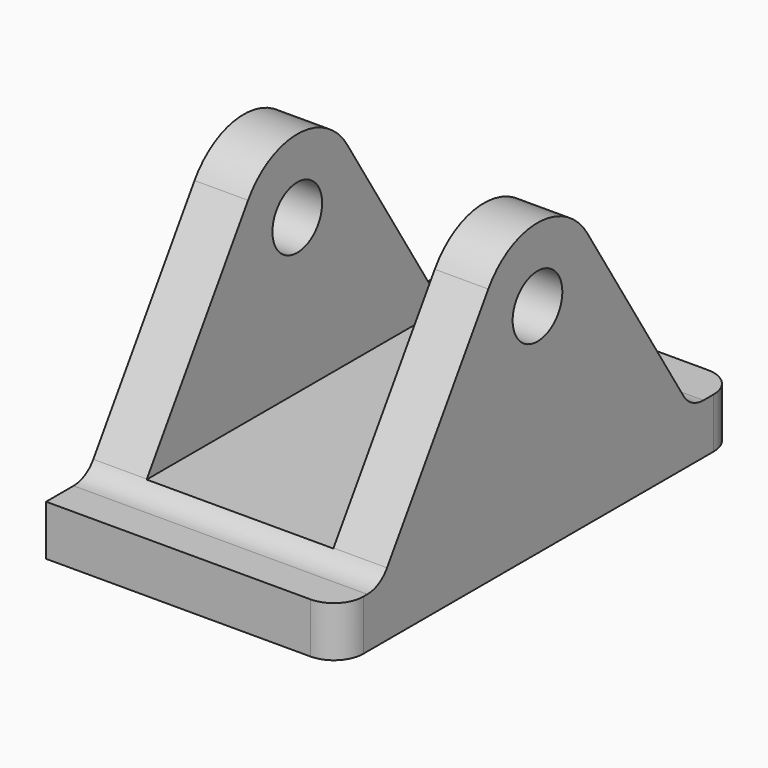
from build123d import *

# Parameters (mm, degrees)
F0_R          = 5.370035
F1_DEPTH      = 25.4
F2_R          = 5.08
F3_W          = 32.284736
F3_H          = 39.864631
F4_DEPTH      = 40.848212
F4_DEPTH_BACK = 50.8
F5_R          = 2.592442
F6_DEPTH      = 27.65358


with BuildPart() as f1:
    # F0 (on Right) → F1 (new body, symmetric)
    with BuildSketch(Plane.YZ):
        with BuildLine():
            Line((-8.754894, 16.901342), (-32.144371, -18.949738))
            Line((-32.144371, -18.949738), (34.951739, -18.949738))
            Line((34.951739, -18.949738), (12.647971, 16.698166))
            ThreePointArc((12.647971, 16.698166), (2.002183, 22.661433), (-8.754894, 16.901342))
        make_face()
        with Locations((1.881628, 9.962005)):
            Circle(F0_R, mode=Mode.SUBTRACT)
        Polygon((-32.144371, -18.949738), (-40.847212, -18.949738), (-40.847212, -27.65258), (45.05827, -27.65258), (45.05827, -18.949738), (34.951739, -18.949738), align=None)
    extrude(amount=F1_DEPTH, both=True)

    # F2
    f2_edges = [f1.edges().sort_by_distance(p)[0] for p in [
        (25.4, -40.847212, -23.301159),
        (25.4, 45.05827, -23.301159),
        (0, -32.144371, -18.949738),
        (0, 34.951739, -18.949738),
    ]]
    fillet(f2_edges, radius=F2_R)

    # F3 (on Front) → F4 (cut, two sides)
    with BuildSketch(Plane.XZ) as f4_sk:
        with Locations((0, 3.228473)):
            Rectangle(F3_W, F3_H)
    extrude(amount=F4_DEPTH, mode=Mode.SUBTRACT)
    extrude(f4_sk.sketch, amount=-F4_DEPTH_BACK, mode=Mode.SUBTRACT)

    # F5 (on Top) → F6 (cut, through all)
    with BuildSketch(Plane.XY):
        with Locations((0, 26.810369)):
            Circle(F5_R)
    extrude(amount=-F6_DEPTH, mode=Mode.SUBTRACT)


solid = f1.part
